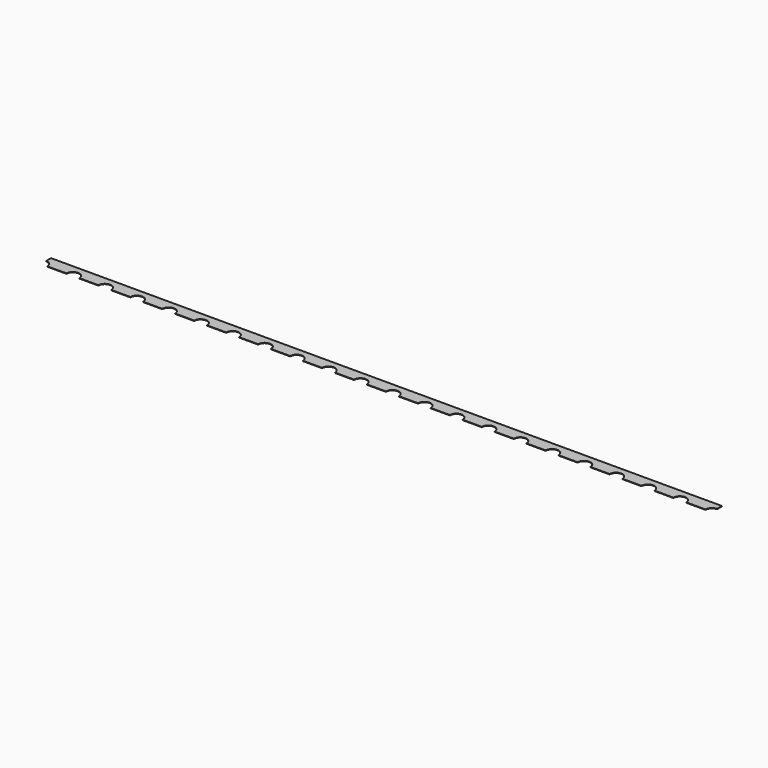
from build123d import *

# Parameters (mm, degrees)
SKETCH004_W             = 53.34
SKETCH004_H             = 1
PAD002_DEPTH            = 0.035
SKETCH005_R             = 0.51
POCKET002_DEPTH         = 0.036
LINEARPATTERN005_COUNT  = 22
LINEARPATTERN005_PITCH  = 2.54
BODY004_PLACEMENT_ANGLE = 180


with BuildPart() as part:
    # Sketch004 → Pad002 (new body)
    with BuildSketch(Plane.XY):
        with Locations((0, 19.82)):
            Rectangle(SKETCH004_W, SKETCH004_H)
    extrude(amount=-PAD002_DEPTH)

    # Sketch005 → Pocket002 (cut, through all)
    with BuildSketch(Plane.XY):
        with Locations((-26.67, 20.32)):
            Circle(SKETCH005_R)
    pocket002 = extrude(amount=-POCKET002_DEPTH, mode=Mode.SUBTRACT)

    # LinearPattern005: Pocket002 ×22
    with Locations(*[(i * LINEARPATTERN005_PITCH, 0, 0) for i in range(1, LINEARPATTERN005_COUNT)]):
        add(pocket002, mode=Mode.SUBTRACT)


with BuildPart() as part_1:
    # Body004 placement: moved
    add(part.part.rotate(Axis((0, 0, 0), (0, 0, 1)), BODY004_PLACEMENT_ANGLE))


solid = part_1.part
